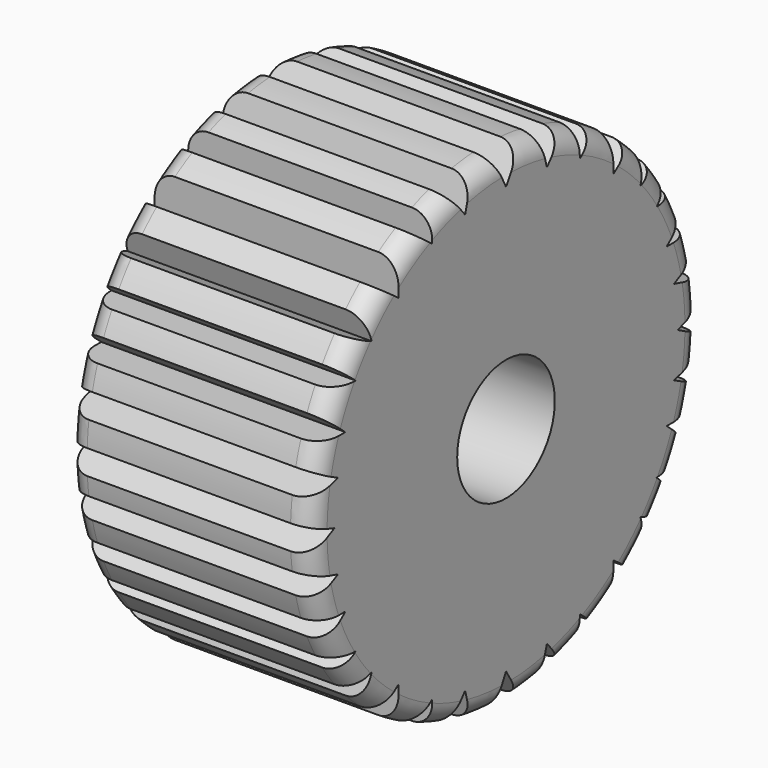
from build123d import *

# Parameters (mm, degrees)
F1_DEPTH = 15.24
F2_R     = 3.81
F3_DEPTH = 38.1
F4_R     = 1.27
F5_R     = 1.27


with BuildPart() as f1:
    # F0 (on Right) → F1 (new body)
    with BuildSketch(Plane.YZ):
        with BuildLine():
            Line((13.398077305, 0), (15.2281326113, 0.6013128745))
            ThreePointArc((15.2281326113, 0.6013128745), (15.1798055016, 1.3531832599), (15.0943784889, 2.1017464247))
            Line((15.0943784889, 2.1017464247), (13.1130128535, 2.6511091331))
            Line((13.1130128535, 2.6511091331), (14.8278876946, 3.5201344459))
            ThreePointArc((14.8278876946, 3.5201344459), (14.6409670189, 4.2308019042), (14.42000681, 4.9316329547))
            Line((14.42000681, 4.9316329547), (12.5428816049, 4.9316329547))
            Line((12.5428816049, 4.9316329547), (13.9503419207, 6.1355977945))
            ThreePointArc((13.9503419207, 6.1355977945), (13.6409811437, 6.7956775554), (13.3004095674, 7.4402086892))
            Line((13.3004095674, 7.4402086892), (11.7446978569, 7.4402086892))
            Line((11.7446978569, 7.4402086892), (12.7637483134, 8.3273242396))
            ThreePointArc((12.7637483134, 8.3273242396), (12.298381881, 9.0004112745), (11.7975585033, 9.647549604))
            Line((11.7975585033, 9.647549604), (10.4904102828, 9.0935893102))
            Line((10.4904102828, 9.0935893102), (10.9360636174, 10.6141468124))
            ThreePointArc((10.9360636174, 10.6141468124), (10.3848682287, 11.1540177458), (9.807056389, 11.6653008955))
            Line((9.807056389, 11.6653008955), (8.3809252494, 10.6141468124))
            Line((8.3809252494, 10.6141468124), (8.3809252494, 12.7286170483))
            ThreePointArc((8.3809252494, 12.7286170483), (7.7174925284, 13.1414576465), (7.0337713468, 13.5197507611))
            Line((7.0337713468, 13.5197507611), (5.7583232652, 12.5143750425))
            Line((5.7583232652, 12.5143750425), (5.7583232652, 14.1102556027))
            ThreePointArc((5.7583232652, 14.1102556027), (5.0998722, 14.3613684426), (4.4305165384, 14.5817736645))
            Line((4.4305165384, 14.5817736645), (3.1927335261, 13.0845062911))
            Line((3.1927335261, 13.0845062911), (2.6690172277, 15.004464237))
            ThreePointArc((2.6690172277, 15.004464237), (1.9097254846, 15.1198726375), (1.1455837892, 15.1968825021))
            Line((1.1455837892, 15.1968825021), (0, 13.3123153226))
            Line((0, 13.3123153226), (-0.97011243, 15.2090920792))
            ThreePointArc((-0.97011243, 15.2090920792), (-1.8224391087, 15.1306416154), (-2.6690172277, 15.004464237))
            Line((-2.6690172277, 15.004464237), (-3.1927335261, 13.0845062911))
            Line((-3.1927335261, 13.0845062911), (-4.4305165384, 14.5817736645))
            ThreePointArc((-4.4305165384, 14.5817736645), (-5.0998722, 14.3613684426), (-5.7583232652, 14.1102556027))
            Line((-5.7583232652, 14.1102556027), (-5.7583232652, 12.5143750425))
            Line((-5.7583232652, 12.5143750425), (-7.0337713468, 13.5197507611))
            ThreePointArc((-7.0337713468, 13.5197507611), (-7.7174925284, 13.1414576465), (-8.3809252494, 12.7286170483))
            Line((-8.3809252494, 12.7286170483), (-8.3809252494, 10.6141468124))
            Line((-8.3809252494, 10.6141468124), (-9.807056389, 11.6653008955))
            ThreePointArc((-9.807056389, 11.6653008955), (-10.3848682287, 11.1540177458), (-10.9360636174, 10.6141468124))
            Line((-10.9360636174, 10.6141468124), (-10.4904102828, 9.0935893102))
            Line((-10.4904102828, 9.0935893102), (-11.7975585033, 9.647549604))
            ThreePointArc((-11.7975585033, 9.647549604), (-12.298381881, 9.0004112745), (-12.7637483134, 8.3273242396))
            Line((-12.7637483134, 8.3273242396), (-11.7446978569, 7.4402086892))
            Line((-11.7446978569, 7.4402086892), (-13.3004095674, 7.4402086892))
            ThreePointArc((-13.3004095674, 7.4402086892), (-13.6409811437, 6.7956775554), (-13.9503419207, 6.1355977945))
            Line((-13.9503419207, 6.1355977945), (-12.5428816049, 4.9316329547))
            Line((-12.5428816049, 4.9316329547), (-14.42000681, 4.9316329547))
            ThreePointArc((-14.42000681, 4.9316329547), (-14.6409670189, 4.2308019042), (-14.8278876946, 3.5201344459))
            Line((-14.8278876946, 3.5201344459), (-13.1130128535, 2.6511091331))
            Line((-13.1130128535, 2.6511091331), (-15.0943784889, 2.1017464247))
            ThreePointArc((-15.0943784889, 2.1017464247), (-15.1798055016, 1.3531832599), (-15.2281326113, 0.6013128745))
            Line((-15.2281326113, 0.6013128745), (-13.398077305, 0))
            Line((-13.398077305, 0), (-15.2104940073, -0.9478776576))
            ThreePointArc((-15.2104940073, -0.9478776576), (-15.1634157608, -1.5259169257), (-15.0943784889, -2.1017464247))
            Line((-15.0943784889, -2.1017464247), (-13.1130128535, -2.6511091331))
            Line((-13.1130128535, -2.6511091331), (-14.8278876946, -3.5201344459))
            ThreePointArc((-14.8278876946, -3.5201344459), (-14.6409670189, -4.2308019042), (-14.42000681, -4.9316329547))
            Line((-14.42000681, -4.9316329547), (-12.5428816049, -4.9316329547))
            Line((-12.5428816049, -4.9316329547), (-13.9503419207, -6.1355977945))
            ThreePointArc((-13.9503419207, -6.1355977945), (-13.6409811437, -6.7956775554), (-13.3004095674, -7.4402086892))
            Line((-13.3004095674, -7.4402086892), (-11.7446978569, -7.4402086892))
            Line((-11.7446978569, -7.4402086892), (-12.7637483134, -8.3273242396))
            ThreePointArc((-12.7637483134, -8.3273242396), (-12.298381881, -9.0004112745), (-11.7975585033, -9.647549604))
            Line((-11.7975585033, -9.647549604), (-10.4904102828, -9.0935893102))
            Line((-10.4904102828, -9.0935893102), (-10.9360636174, -10.6141468124))
            ThreePointArc((-10.9360636174, -10.6141468124), (-10.3848682287, -11.1540177458), (-9.807056389, -11.6653008955))
            Line((-9.807056389, -11.6653008955), (-8.3809252494, -10.6141468124))
            Line((-8.3809252494, -10.6141468124), (-8.3809252494, -12.7286170483))
            ThreePointArc((-8.3809252494, -12.7286170483), (-7.7174925284, -13.1414576465), (-7.0337713468, -13.5197507611))
            Line((-7.0337713468, -13.5197507611), (-5.7583232652, -12.5143750425))
            Line((-5.7583232652, -12.5143750425), (-5.7583232652, -14.1102556027))
            ThreePointArc((-5.7583232652, -14.1102556027), (-5.0998722, -14.3613684426), (-4.4305165384, -14.5817736645))
            Line((-4.4305165384, -14.5817736645), (-3.1927335261, -13.0845062911))
            Line((-3.1927335261, -13.0845062911), (-2.6690172277, -15.004464237))
            ThreePointArc((-2.6690172277, -15.004464237), (-1.8224391087, -15.1306416154), (-0.97011243, -15.2090920792))
            Line((-0.97011243, -15.2090920792), (0, -13.3123153226))
            Line((0, -13.3123153226), (1.1455837892, -15.1968825021))
            ThreePointArc((1.1455837892, -15.1968825021), (1.9097254846, -15.1198726375), (2.6690172277, -15.004464237))
            Line((2.6690172277, -15.004464237), (3.1927335261, -13.0845062911))
            Line((3.1927335261, -13.0845062911), (4.4305165384, -14.5817736645))
            ThreePointArc((4.4305165384, -14.5817736645), (5.0998722, -14.3613684426), (5.7583232652, -14.1102556027))
            Line((5.7583232652, -14.1102556027), (5.7583232652, -12.5143750425))
            Line((5.7583232652, -12.5143750425), (7.0337713468, -13.5197507611))
            ThreePointArc((7.0337713468, -13.5197507611), (7.7174925284, -13.1414576465), (8.3809252494, -12.7286170483))
            Line((8.3809252494, -12.7286170483), (8.3809252494, -10.6141468124))
            Line((8.3809252494, -10.6141468124), (9.807056389, -11.6653008955))
            ThreePointArc((9.807056389, -11.6653008955), (10.3848682287, -11.1540177458), (10.9360636174, -10.6141468124))
            Line((10.9360636174, -10.6141468124), (10.4904102828, -9.0935893102))
            Line((10.4904102828, -9.0935893102), (11.7975585033, -9.647549604))
            ThreePointArc((11.7975585033, -9.647549604), (12.298381881, -9.0004112745), (12.7637483134, -8.3273242396))
            Line((12.7637483134, -8.3273242396), (11.7446978569, -7.4402086892))
            Line((11.7446978569, -7.4402086892), (13.3004095674, -7.4402086892))
            ThreePointArc((13.3004095674, -7.4402086892), (13.6409811437, -6.7956775554), (13.9503419207, -6.1355977945))
            Line((13.9503419207, -6.1355977945), (12.5428816049, -4.9316329547))
            Line((12.5428816049, -4.9316329547), (14.42000681, -4.9316329547))
            ThreePointArc((14.42000681, -4.9316329547), (14.6409670189, -4.2308019042), (14.8278876946, -3.5201344459))
            Line((14.8278876946, -3.5201344459), (13.1130128535, -2.6511091331))
            Line((13.1130128535, -2.6511091331), (15.0943784889, -2.1017464247))
            ThreePointArc((15.0943784889, -2.1017464247), (15.1634157608, -1.5259169257), (15.2104940073, -0.9478776576))
            Line((15.2104940073, -0.9478776576), (13.398077305, 0))
        make_face()
    extrude(amount=F1_DEPTH)

    # F2 (on face) → F3 (cut)
    with BuildSketch(Plane(origin=(0, 0, 0), x_dir=(0, -1, 0), z_dir=(-1, 0, 0))):
        Circle(F2_R)
    extrude(amount=-F3_DEPTH, mode=Mode.SUBTRACT)

    # F4
    f4_edges = [f1.edges().sort_by_distance(p)[0] for p in [
        (0, -1.822439, -15.130642),
        (0, 1.909725, -15.119873),
        (0, 5.099872, -14.361368),
        (0, -13.640981, -6.795678),
        (0, -12.298382, -9.000411),
        (0, -10.384868, -11.154018),
        (0, -7.717493, -13.141458),
        (0, -14.640967, -4.230802),
        (0, -15.179806, 1.353183),
        (0, -15.163416, -1.525917),
        (0, -14.640967, 4.230802),
        (0, -13.640981, 6.795678),
        (0, -12.298382, 9.000411),
        (0, -5.099872, -14.361368),
        (0, 7.717493, -13.141458),
        (0, 10.384868, -11.154018),
        (0, 12.298382, -9.000411),
        (0, 13.640981, -6.795678),
        (0, -10.384868, 11.154018),
        (0, -7.717493, 13.141458),
        (0, -5.099872, 14.361368),
        (0, -1.822439, 15.130642),
        (0, 1.909725, 15.119873),
        (0, 5.099872, 14.361368),
        (0, 7.717493, 13.141458),
        (0, 10.384868, 11.154018),
        (0, 12.298382, 9.000411),
        (0, 13.640981, 6.795678),
        (0, 14.640967, 4.230802),
        (0, 14.640967, -4.230802),
        (0, 15.163416, -1.525917),
        (0, 15.179806, 1.353183),
    ]]
    fillet(f4_edges, radius=F4_R)

    # F5
    f5_edges = [f1.edges().sort_by_distance(p)[0] for p in [
        (15.24, 14.640967, -4.230802),
        (15.24, 13.640981, -6.795678),
        (15.24, 12.298382, -9.000411),
        (15.24, 10.384868, -11.154018),
        (15.24, 15.163416, -1.525917),
        (15.24, 15.179806, 1.353183),
        (15.24, 14.640967, 4.230802),
        (15.24, 13.640981, 6.795678),
        (15.24, 12.298382, 9.000411),
        (15.24, 10.384868, 11.154018),
        (15.24, 7.717493, 13.141458),
        (15.24, 5.099872, 14.361368),
        (15.24, 1.909725, 15.119873),
        (15.24, -1.822439, 15.130642),
        (15.24, -5.099872, 14.361368),
        (15.24, -7.717493, 13.141458),
        (15.24, -10.384868, 11.154018),
        (15.24, -12.298382, 9.000411),
        (15.24, -13.640981, 6.795678),
        (15.24, -14.640967, 4.230802),
        (15.24, -15.179806, 1.353183),
        (15.24, -15.163416, -1.525917),
        (15.24, -14.640967, -4.230802),
        (15.24, -13.640981, -6.795678),
        (15.24, -12.298382, -9.000411),
        (15.24, -10.384868, -11.154018),
        (15.24, -7.717493, -13.141458),
        (15.24, -5.099872, -14.361368),
        (15.24, -1.822439, -15.130642),
        (15.24, 1.909725, -15.119873),
        (15.24, 5.099872, -14.361368),
        (15.24, 7.717493, -13.141458),
    ]]
    fillet(f5_edges, radius=F5_R)


solid = f1.part
